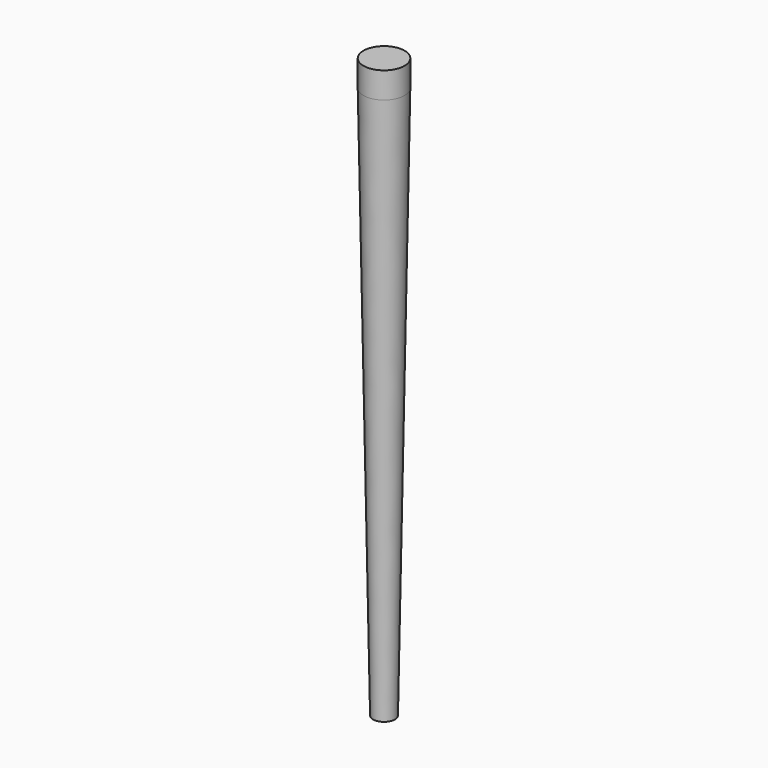
from build123d import *

# Parameters (mm, degrees)
F0_R      = 20.2439763863
F1_DEPTH  = 10.16
F2_R      = 12.3390116376
F3_DEPTH  = 8.89
F5_DEPTH  = 0.254
F6_DEPTH  = 0.254
F7_DEPTH  = 2.286
F8_DEPTH  = 2.286
F10_DEPTH = 25.4
F11_DEPTH = 50.8
F12_DEPTH = 1.27
F13_DEPTH = 1.27
F14_DEPTH = 25.4
F15_R     = 5.9555192151
F16_DEPTH = 167.64
F17_SIZE2 = 2.794
F17_SIZE  = 160.0681527963
F18_W     = 45.1150629669
F18_H     = 21.0420321673
F19_DEPTH = 25.4
F20_DEPTH = 25.4


with BuildPart() as f1:
    # F0 (on Top) → F1 (new body)
    with BuildSketch(Plane.XY):
        Circle(F0_R)
    extrude(amount=F1_DEPTH)

    # F2 (on face) → F3 (join)
    with BuildSketch(Plane.XY.offset(10.16)):
        Circle(F2_R)
    extrude(amount=F3_DEPTH)

    # F4 (on Front) → F5 (join)
    with BuildSketch(Plane.XZ):
        with BuildLine():
            add(Edge.make_bspline(
                [(-12.1147008613, 18.9316812903), (-12.5825885387, 39.643614737), (-14.1043760911, 180.4872847527), (-20.1423116849, 215.1594423433), (-16.5980636671, 214.2285434237), (-12.8136342596, 217.1071550637), (-13.8994905387, 225.3991797656), (-17.690195851, 229.7737918888), (-21.3235962144, 228.5443351063), (-21.72468447, 231.1706865689), (-23.0745608098, 250.4649690024), (-22.9518555989, 256.8313726894), (-25.9612755155, 279.5145026457), (-19.7421258922, 272.3476049684), (-8.8885956952, 268.998501799), (6.6271937698, 261.4946225406), (12.2027765589, 256.1934321206), (17.5689411606, 248.9539384021), (19.5820695948, 242.6412768865), (21.7285943019, 235.2163703421), (21.0795757322, 226.6989574981), (17.1180518063, 124.7114584437), (15.2094878956, 77.70771609), (11.6083548837, 18.1667354361), (12.5199184163, 13.1739974773), (7.8980496645, 11.3722942506), (0.3726356815, 13.3748423837), (-11.8699226938, 12.3427906017), (-12.0266797417, 15.035259866), (-12.1147008613, 18.9316812903)],
                knots=[0, 0, 0, 0, 0.1257254435, 0.1801466998, 0.1919036578, 0.2112403794, 0.2389108592, 0.261334308, 0.2775826335, 0.2907551098, 0.3325149493, 0.3636705446, 0.4039783899, 0.4240659342, 0.4586729556, 0.4992031799, 0.5266476396, 0.5552636706, 0.5809163826, 0.6063516787, 0.6344015668, 0.7303572224, 0.8074506533, 0.8789177389, 0.897509656, 0.9162026247, 0.9446563322, 0.976347968, 1, 1, 1, 1], degree=3))
        make_face()
    extrude(amount=F5_DEPTH)

    # F6 (add): a face of the model
    f6_faces = [f1.faces().sort_by_distance(p)[0] for p in [
        (0.2349858377, 0, 153.5959306446),
    ]]
    extrude(f6_faces, amount=F6_DEPTH)

    # F7 (add): a face of the model
    f7_faces = [f1.faces().sort_by_distance(p)[0] for p in [
        (0.2349858377, 0.254, 153.5959306446),
    ]]
    extrude(f7_faces, amount=F7_DEPTH)

    # F8 (add): a face of the model
    f8_faces = [f1.faces().sort_by_distance(p)[0] for p in [
        (0.2349858377, -0.254, 153.5959306446),
    ]]
    extrude(f8_faces, amount=F8_DEPTH)

    # F9 (on Front) → F10 (join)
    with BuildSketch(Plane.XZ):
        Polygon((-28.4392070025, 277.075022459), (5.8726719581, 261.9545459747), (-7.6194559224, 282.5416624546), align=None)
    extrude(amount=F10_DEPTH)

    # F11 (cut): a face of the model
    f11_faces = [f1.faces().sort_by_distance(p)[0] for p in [
        (-10.061996989, -25.4, 273.8570769628),
    ]]
    extrude(f11_faces, amount=-F11_DEPTH, mode=Mode.SUBTRACT)

    # F12 (cut): a face of the model
    f12_faces = [f1.faces().sort_by_distance(p)[0] for p in [
        (0.248434517, -2.54, 153.5481680876),
    ]]
    extrude(f12_faces, amount=-F12_DEPTH, mode=Mode.SUBTRACT)

    # F13 (cut): a face of the model
    f13_faces = [f1.faces().sort_by_distance(p)[0] for p in [
        (0.248434517, 2.54, 153.5481680876),
    ]]
    extrude(f13_faces, amount=-F13_DEPTH, mode=Mode.SUBTRACT)

    # F14 (cut): a face of the model
    f14_faces = [f1.faces().sort_by_distance(p)[0] for p in [
        (0.248434517, -1.27, 153.5481680876),
    ]]
    extrude(f14_faces, amount=-F14_DEPTH, mode=Mode.SUBTRACT)

    # F15 (on face) → F16 (join)
    with BuildSketch(Plane(origin=(0, 0, 0), x_dir=(1, 0, 0), z_dir=(0, 0, -1))):
        Circle(F15_R)
    extrude(amount=F16_DEPTH)

    # F17
    f17_edges = [f1.edges().sort_by_distance(p)[0] for p in [
        (-5.955519, 0, -167.64),
    ]]
    f17_side = f1.faces().sort_by_distance((-5.955519, 0, -83.82))[0]
    chamfer(f17_edges, length=F17_SIZE, length2=F17_SIZE2, reference=f17_side)

    # F18 (on Front) → F19 (cut)
    with BuildSketch(Plane.XZ):
        with Locations((1.2053744867, 10.5210160837)):
            Rectangle(F18_W, F18_H)
    extrude(amount=-F19_DEPTH, mode=Mode.SUBTRACT)

    # F20 (cut): a face of the model
    f20_faces = [f1.faces().sort_by_distance(p)[0] for p in [
        (0, 0, 8.3930130148),
    ]]
    extrude(f20_faces, amount=-F20_DEPTH, mode=Mode.SUBTRACT)


solid = f1.part
